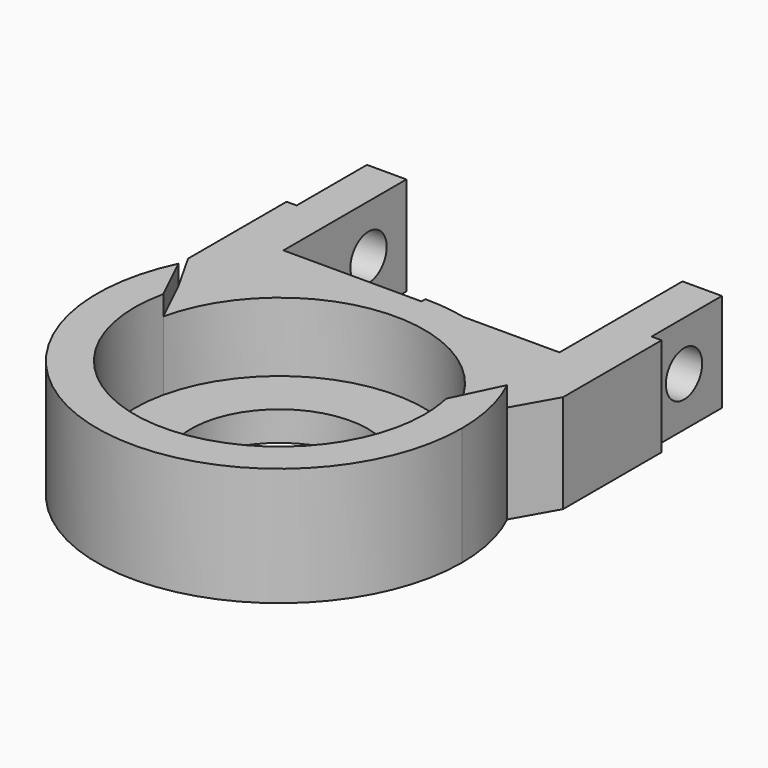
from build123d import *

# Parameters (mm, degrees)
F0_R     = 4.5
F1_DEPTH = 1.5
F0_W     = 2
F0_H     = 4.459151
F2_DEPTH = 5
F3_DEPTH = 6
F4_R     = 1.15
F5_DEPTH = 25


with BuildPart() as f1:
    # F0 (on Top) → F1 (new body)
    with BuildSketch(Plane.XY):
        with BuildLine():
            ThreePointArc((-7.173268, 1.602102), (-0.80591, -7.305683), (7.35, 0))
            ThreePointArc((7.35, 0), (7.305683, 0.80591), (7.173268, 1.602102))
            ThreePointArc((7.173268, 1.602102), (0, 7.35), (-7.173268, 1.602102))
        make_face()
        Circle(F0_R, mode=Mode.SUBTRACT)
    extrude(amount=F1_DEPTH)

    # F0 (on Top) → F2 (join)
    with BuildSketch(Plane.XY):
        Polygon((-9.510325, 9), (-7, 9), (-7, 12.338503), (-9, 12.338503), (-9.510325, 12.338503), align=None)
        with BuildLine():
            Line((-9.510325, 6.091482), (-8.334513, 4.012281))
            ThreePointArc((-8.334513, 4.012281), (-5.798901, 7.206612), (-2.136001, 9))
            Line((-2.136001, 9), (-7, 9))
            Line((-7, 9), (-9.510325, 9))
            Line((-9.510325, 9), (-9.510325, 6.091482))
        make_face()
        with BuildLine():
            ThreePointArc((-7.173268, 1.602102), (0, 7.35), (7.173268, 1.602102))
            Line((7.173268, 1.602102), (8.334513, 4.012281))
            ThreePointArc((8.334513, 4.012281), (5.798901, 7.206612), (2.136001, 9))
            Line((2.136001, 9), (0, 9))
            Line((0, 9), (-2.136001, 9))
            ThreePointArc((-2.136001, 9), (-5.798901, 7.206612), (-8.334513, 4.012281))
            Line((-8.334513, 4.012281), (-7.173268, 1.602102))
        make_face()
        with BuildLine():
            Line((0, 9), (2.136001, 9))
            ThreePointArc((2.136001, 9), (1.075291, 9.187287), (0, 9.25))
            Line((0, 9.25), (0, 9))
        make_face()
        Polygon((7, 12.338503), (7, 9), (9.510325, 9), (9.510325, 12.338503), (9, 12.338503), align=None)
        with Locations((-8, 14.568078)):
            Rectangle(F0_W, F0_H)
        with Locations((8, 14.568078)):
            Rectangle(F0_W, F0_H)
        with BuildLine():
            ThreePointArc((2.136001, 9), (5.798901, 7.206612), (8.334513, 4.012281))
            Line((8.334513, 4.012281), (9.510325, 6.091482))
            Line((9.510325, 6.091482), (9.510325, 9))
            Line((9.510325, 9), (7, 9))
            Line((7, 9), (2.136001, 9))
        make_face()
    extrude(amount=F2_DEPTH)

    # F0 (on Top) → F3 (join)
    with BuildSketch(Plane.XY):
        with BuildLine():
            ThreePointArc((7.173268, 1.602102), (7.305683, 0.80591), (7.35, 0))
            ThreePointArc((7.35, 0), (-0.80591, -7.305683), (-7.173268, 1.602102))
            Line((-7.173268, 1.602102), (-8.334513, 4.012281))
            ThreePointArc((-8.334513, 4.012281), (-2.0577, -9.018224), (9.25, 0))
            ThreePointArc((9.25, 0), (9.018224, 2.0577), (8.334513, 4.012281))
            Line((8.334513, 4.012281), (7.173268, 1.602102))
        make_face()
    extrude(amount=F3_DEPTH)

    # F4 (on face) → F5 (cut)
    with BuildSketch(Plane(origin=(-9, 0, 0), x_dir=(0, -1, 0), z_dir=(-1, 0, 0))):
        with Locations((-14.394956, 2.5)):
            Circle(F4_R)
    extrude(amount=-F5_DEPTH, mode=Mode.SUBTRACT)


solid = f1.part
